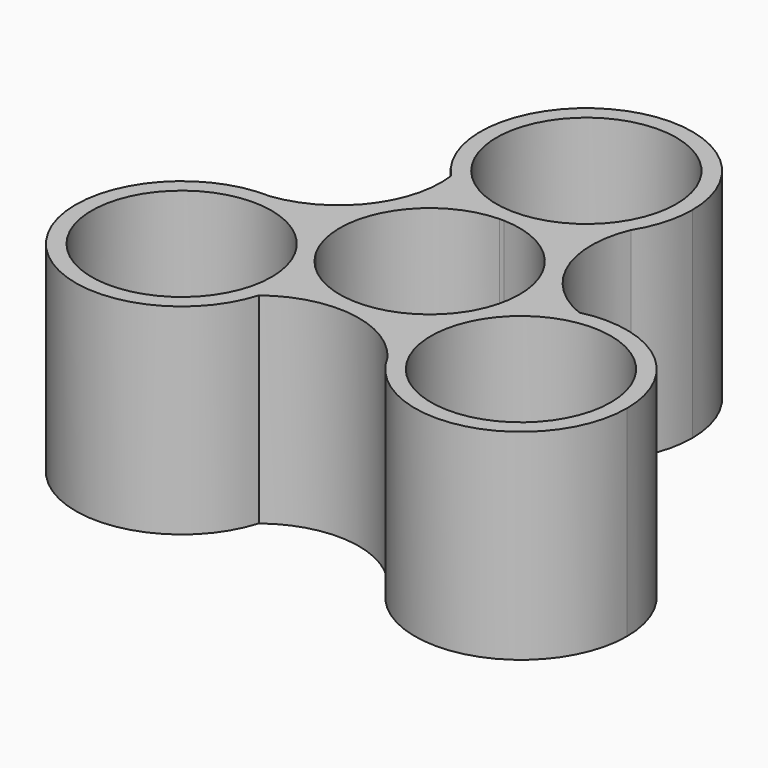
from build123d import *

# Parameters (mm, degrees)
F0_R     = 11.2
F1_DEPTH = 25


with BuildPart() as f1:
    # F0 (on Top) → F1 (new body)
    with BuildSketch(Plane.XY):
        with BuildLine():
            ThreePointArc((0.281874, 11.196452), (8.018634, 7.819303), (11.2, 0))
            ThreePointArc((11.2, 0), (10.853993, -2.762398), (9.837349, -5.354116))
            ThreePointArc((9.837349, -5.354116), (13.358937, -1.523251), (18.087433, 0.648944))
            ThreePointArc((18.087433, 0.648944), (11.142377, 7.574406), (11.184069, 17.382265))
            ThreePointArc((11.184069, 17.382265), (6.514064, 12.912721), (0.281874, 11.196452))
        make_face()
        with BuildLine():
            ThreePointArc((-0.281874, 11.196452), (0, 11.2), (0.281874, 11.196452))
            ThreePointArc((0.281874, 11.196452), (6.514064, 12.912721), (11.184069, 17.382265))
            ThreePointArc((11.184069, 17.382265), (12.68601, 20.74582), (13.2, 24.393442))
            ThreePointArc((13.2, 24.393442), (-4.87055, 36.66201), (-9.605719, 15.339705))
            ThreePointArc((-9.605719, 15.339705), (-5.360295, 12.330804), (-0.281874, 11.196452))
        make_face()
        with Locations((0, 24.393442)):
            Circle(F0_R, mode=Mode.SUBTRACT)
        with BuildLine():
            ThreePointArc((18.087433, 0.648944), (13.358937, -1.523251), (9.837349, -5.354116))
            ThreePointArc((9.837349, -5.354116), (9.699485, -5.6), (9.555475, -5.842337))
            ThreePointArc((9.555475, -5.842337), (7.925712, -12.097705), (9.461449, -18.37682))
            ThreePointArc((9.461449, -18.37682), (24.309413, -25.006939), (34.325341, -12.196721))
            ThreePointArc((34.325341, -12.196721), (29.314957, -1.844418), (18.087433, 0.648944))
        make_face()
        with Locations((21.125341, -12.196721)):
            Circle(F0_R, mode=Mode.SUBTRACT)
        with BuildLine():
            ThreePointArc((-9.837349, -5.354116), (-9.699485, 5.6), (-0.281874, 11.196452))
            ThreePointArc((-0.281874, 11.196452), (-5.360295, 12.330804), (-9.605719, 15.339705))
            ThreePointArc((-9.605719, 15.339705), (-12.130817, 5.862379), (-20.645517, 0.994555))
            ThreePointArc((-20.645517, 0.994555), (-14.439776, -0.815015), (-9.837349, -5.354116))
        make_face()
        with BuildLine():
            ThreePointArc((9.461449, -18.37682), (7.925712, -12.097705), (9.555475, -5.842337))
            ThreePointArc((9.555475, -5.842337), (0, -11.2), (-9.555475, -5.842337))
            ThreePointArc((-9.555475, -5.842337), (-8.339368, -8.916647), (-7.925341, -12.196721))
            ThreePointArc((-7.925341, -12.196721), (-8.065175, -14.112985), (-8.481715, -15.988649))
            ThreePointArc((-8.481715, -15.988649), (0.98844, -13.436785), (9.461449, -18.37682))
        make_face()
        with BuildLine():
            ThreePointArc((-9.555475, -5.842337), (-9.699485, -5.6), (-9.837349, -5.354116))
            ThreePointArc((-9.837349, -5.354116), (-14.439776, -0.815015), (-20.645517, 0.994555))
            ThreePointArc((-20.645517, 0.994555), (-31.856768, -19.882843), (-8.481715, -15.988649))
            ThreePointArc((-8.481715, -15.988649), (-8.065175, -14.112985), (-7.925341, -12.196721))
            ThreePointArc((-7.925341, -12.196721), (-8.339368, -8.916647), (-9.555475, -5.842337))
        make_face()
        with Locations((-21.125341, -12.196721)):
            Circle(F0_R, mode=Mode.SUBTRACT)
    extrude(amount=F1_DEPTH)


solid = f1.part
